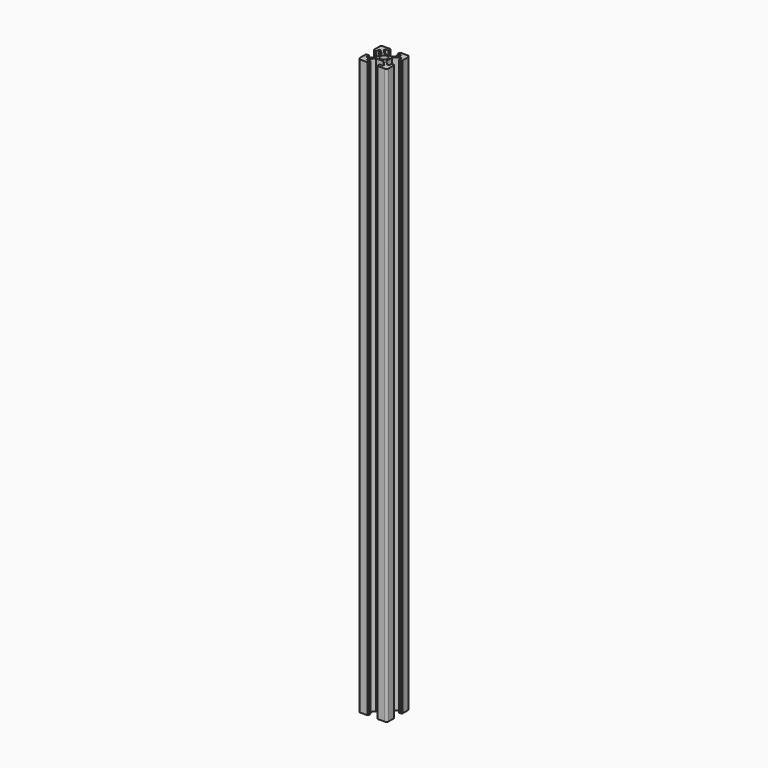
from build123d import *

# Parameters (mm, degrees)
SKETCH_R  = 2.5
PAD_DEPTH = 400
FILLET_R  = 1.5


with BuildPart() as part:
    # Sketch → Pad (new body)
    with BuildSketch(Plane.XY):
        Polygon((-3.6, 2.53934), (-3.6, -2.53934), (-6.56066, -5.5), (-7.9, -5.5), (-7.9, -3.1), (-9.5, -3.1), (-10, -3.6), (-10, -10), (-3.6, -10), (-3.1, -9.5), (-3.1, -7.9), (-5.5, -7.9), (-5.5, -6.56066), (-2.53934, -3.6), (2.53934, -3.6), (5.5, -6.56066), (5.5, -7.9), (3.1, -7.9), (3.1, -9.5), (3.6, -10), (10, -10), (10, -3.6), (9.5, -3.1), (7.9, -3.1), (7.9, -5.5), (6.56066, -5.5), (3.6, -2.53934), (3.6, 2.53934), (6.56066, 5.5), (7.899992, 5.5), (7.899998, 3.1), (9.5, 3.1), (10, 3.6), (10, 10), (3.6, 10), (3.1, 9.5), (3.1, 7.9), (5.5, 7.9), (5.5, 6.56066), (2.53934, 3.6), (-2.53934, 3.6), (-5.5, 6.56066), (-5.5, 7.9), (-3.1, 7.9), (-3.1, 9.5), (-3.6, 10), (-10, 10), (-10, 3.6), (-9.5, 3.1), (-7.9, 3.1), (-7.9, 5.5), (-6.56066, 5.5), align=None)
        Circle(SKETCH_R, mode=Mode.SUBTRACT)
    extrude(amount=PAD_DEPTH)

    # Fillet
    fillet_edges = [part.edges().sort_by_distance(p)[0] for p in [
        (-10, -10, 200),
        (10, -10, 200),
        (10, 10, 200),
        (-10, 10, 200),
    ]]
    fillet(fillet_edges, radius=FILLET_R)


solid = part.part
